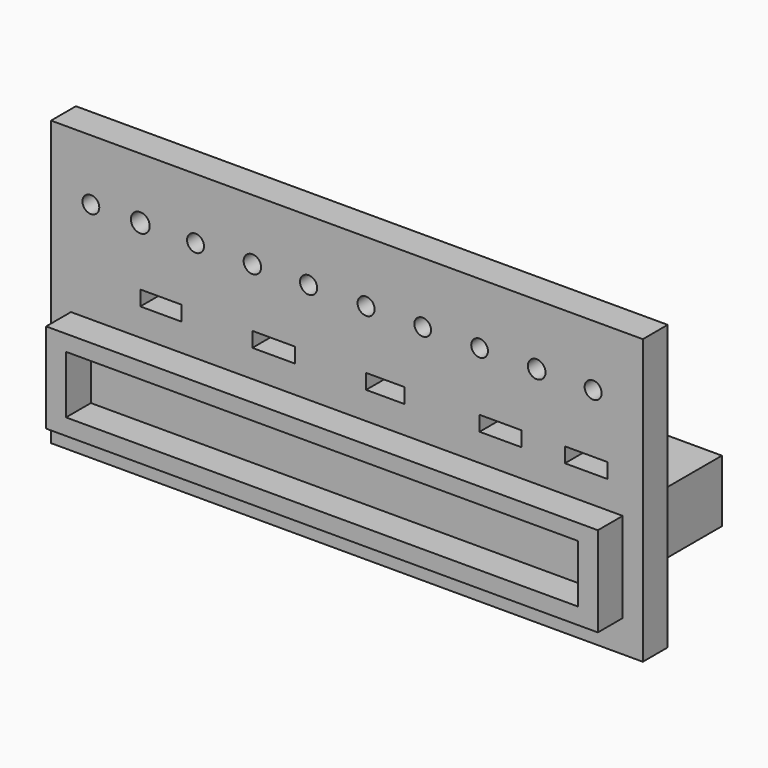
from build123d import *

# Parameters (mm, degrees)
F0_W     = 483.521879
F0_H     = 232.050955
F1_DEPTH = 25.4
F2_W     = 52.622199
F2_H     = 50.77935
F2_W_2   = 53.910152
F3_DEPTH = 152.4
F4_R     = 6.942146
F4_R_2   = 7.233065
F4_R_3   = 6.827798
F4_R_4   = 6.825473
F4_R_5   = 6.970363
F4_R_6   = 7.019906
F4_R_7   = 7.160675
F4_R_8   = 6.922756
F4_R_9   = 7.679718
F4_R_10  = 6.87136
F4_W     = 33.581532
F4_H     = 12.216136
F4_W_2   = 34.816921
F4_W_3   = 31.48967
F4_W_4   = 34.290463
F4_W_5   = 34.827173
F5_DEPTH = 25.4
F6_DEPTH = 25.4


with BuildPart() as f1:
    # F0 (on Front) → F1 (new body)
    with BuildSketch(Plane.XZ):
        with Locations((241.760939, 116.025477)):
            Rectangle(F0_W, F0_H)
    extrude(amount=F1_DEPTH)

    # F2 (on face) → F3 (join)
    with BuildSketch(Plane(origin=(0, 0, 0), x_dir=(-1, 0, 0), z_dir=(0, 1, 0))):
        with Locations((-379.599809, 25.389675)):
            Rectangle(F2_W, F2_H)
        with Locations((-107.145153, 25.389675)):
            Rectangle(F2_W_2, F2_H)
    extrude(amount=F3_DEPTH)

    # F4 (on face) → F5 (cut)
    with BuildSketch(Plane.XZ.offset(25.4)):
        with Locations((442.921937, 182.266369)):
            Circle(F4_R)
        with Locations((396.795809, 182.266369)):
            Circle(F4_R_2)
        with Locations((350.143939, 182.266369)):
            Circle(F4_R_3)
        with Locations((303.674549, 182.266369)):
            Circle(F4_R_4)
        with Locations((257.422805, 182.266369)):
            Circle(F4_R_5)
        with Locations((210.462064, 182.266369)):
            Circle(F4_R_6)
        with Locations((164.519146, 182.266369)):
            Circle(F4_R_7)
        with Locations((118.084826, 182.266369)):
            Circle(F4_R_8)
        with Locations((72.942153, 182.266369)):
            Circle(F4_R_9)
        with Locations((32.544691, 182.266369)):
            Circle(F4_R_10)
        with Locations((89.732919, 128.181107)):
            Rectangle(F4_W, F4_H)
        with Locations((181.927606, 128.181107)):
            Rectangle(F4_W_2, F4_H)
        with Locations((273.16764, 128.181107)):
            Rectangle(F4_W_3, F4_H)
        with Locations((367.28917, 128.181107)):
            Rectangle(F4_W_4, F4_H)
        with Locations((437.272459, 128.181107)):
            Rectangle(F4_W_5, F4_H)
    extrude(amount=-F5_DEPTH, mode=Mode.SUBTRACT)

    # F4 (on face) → F6 (join)
    with BuildSketch(Plane.XZ.offset(25.4)):
        Polygon((32.544691, 39.454777), (32.544691, 86.642593), (16.272346, 86.642593), (16.272346, 26.111573), (467.10965, 26.111573), (467.10965, 86.642593), (450.697422, 86.642593), (450.697422, 39.454777), align=None)
        Polygon((16.272346, 86.642593), (32.544691, 86.642593), (450.697422, 86.642593), (467.10965, 86.642593), (467.10965, 99.620059), (16.272346, 99.620059), align=None)
    extrude(amount=F6_DEPTH)


solid = f1.part
